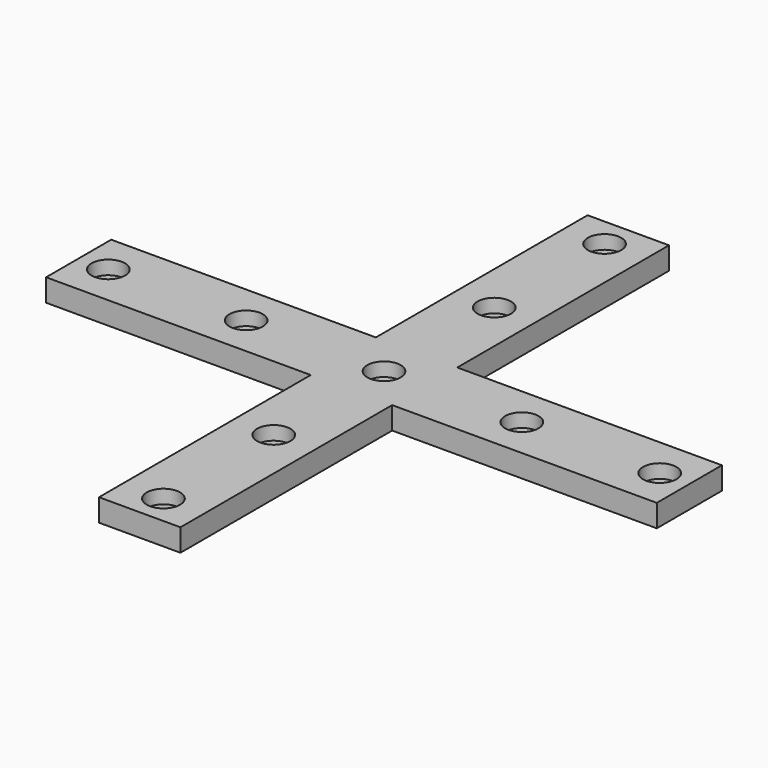
from build123d import *

# Parameters (mm, degrees)
F1_DEPTH = 7
F2_R     = 5.207
F3_DEPTH = 4.3


with BuildPart() as f1:
    # F0 (on Top) → F1 (new body)
    with BuildSketch(Plane.XY):
        Polygon((-95.25, 12.7), (-95.25, -12.7), (-12.7, -12.7), (-12.7, -95.25), (12.7, -95.25), (12.7, -12.7), (95.25, -12.7), (95.25, 12.7), (12.7, 12.7), (12.7, 95.25), (-12.7, 95.25), (-12.7, 12.7), align=None)
    extrude(amount=F1_DEPTH)

    # F2 (on face) → F3 (cut)
    with BuildSketch(Plane.XY.offset(7)):
        Circle(F2_R)
        with Locations((-43, 0)):
            Circle(F2_R)
        with Locations((-86, 0)):
            Circle(F2_R)
        with Locations((86, 0)):
            Circle(F2_R)
        with Locations((43, 0)):
            Circle(F2_R)
        with Locations((0, -86)):
            Circle(F2_R)
        with Locations((0, -43)):
            Circle(F2_R)
        with Locations((0, 43)):
            Circle(F2_R)
        with Locations((0, 86)):
            Circle(F2_R)
    extrude(amount=-F3_DEPTH, mode=Mode.SUBTRACT)


solid = f1.part
